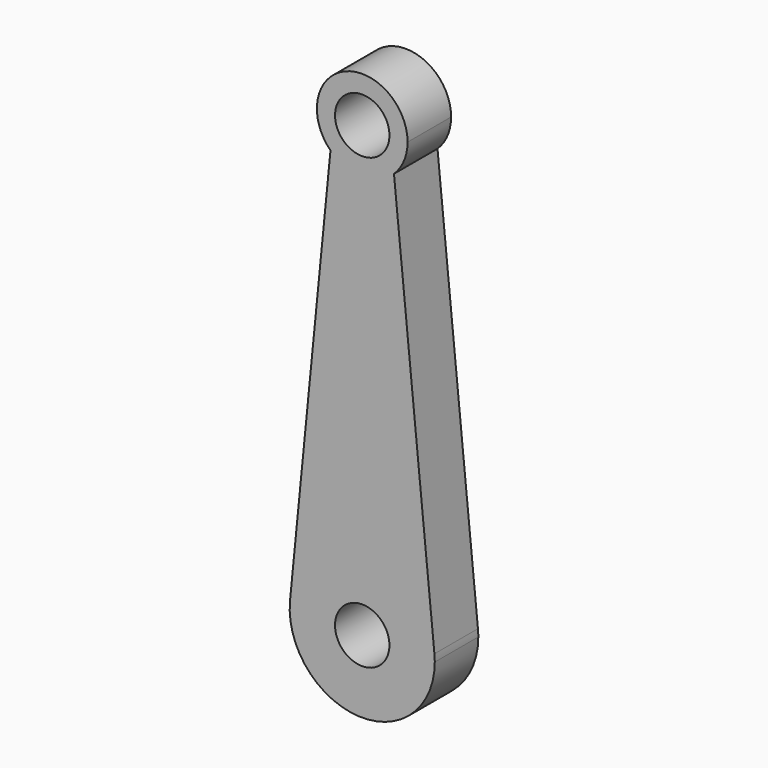
from build123d import *

# Parameters (mm, degrees)
F0_R     = 1.5
F1_DEPTH = 1.5


with BuildPart() as f1:
    # F0 (on Front) → F1 (new body, symmetric)
    with BuildSketch(Plane.XZ):
        with BuildLine():
            ThreePointArc((-3.980609, 0.393384), (-0.196931, -3.995149), (4, 0))
            ThreePointArc((4, 0), (3.995149, 0.196931), (3.980609, 0.393384))
            ThreePointArc((3.980609, 0.393384), (0, 4), (-3.980609, 0.393384))
        make_face()
        Circle(F0_R, mode=Mode.SUBTRACT)
        with BuildLine():
            ThreePointArc((-3.980609, 0.393384), (0, 4), (3.980609, 0.393384))
            Line((3.980609, 0.393384), (1.75, 22.964643))
            ThreePointArc((1.75, 22.964643), (0, 22.25), (-1.75, 22.964643))
            Line((-1.75, 22.964643), (-3.980609, 0.393384))
        make_face()
        with BuildLine():
            ThreePointArc((-1.75, 22.964643), (0, 22.25), (1.75, 22.964643))
            ThreePointArc((1.75, 22.964643), (2.304886, 23.781754), (2.5, 24.75))
            ThreePointArc((2.5, 24.75), (-0.968246, 27.054886), (-1.75, 22.964643))
        make_face()
        with Locations((0, 24.75)):
            Circle(F0_R, mode=Mode.SUBTRACT)
    extrude(amount=F1_DEPTH, both=True)


solid = f1.part
